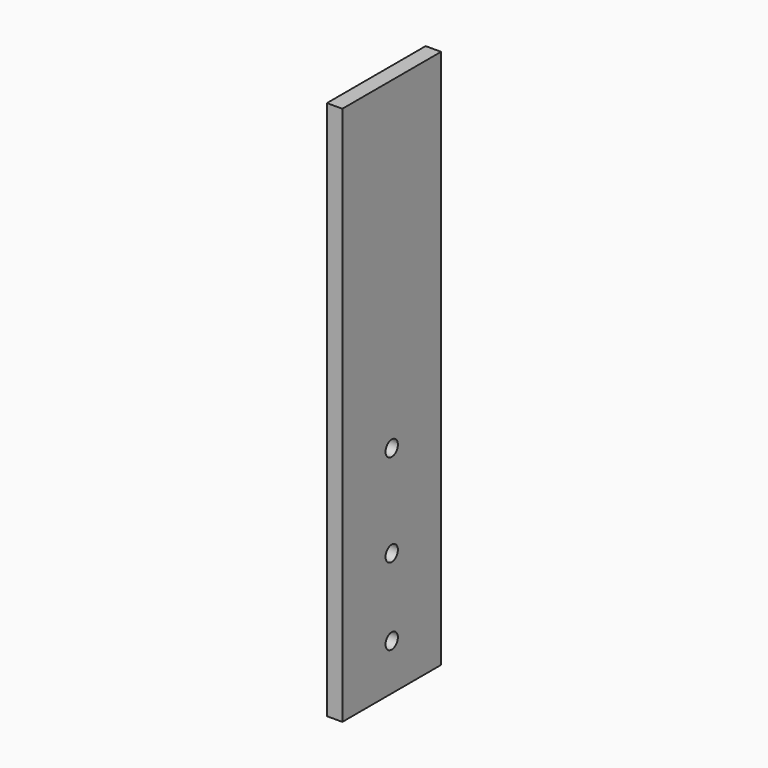
from build123d import *

# Parameters (mm, degrees)
F0_W     = 50.8
F0_H     = 222.25
F0_R     = 3.175
F1_DEPTH = 6.35


with BuildPart() as f1:
    # F0 (on Right) → F1 (new body)
    with BuildSketch(Plane.YZ):
        with Locations((0, 111.125)):
            Rectangle(F0_W, F0_H)
        with Locations((0, 19.05)):
            Circle(F0_R, mode=Mode.SUBTRACT)
        with Locations((0, 50.8)):
            Circle(F0_R, mode=Mode.SUBTRACT)
        with Locations((0, 88.9)):
            Circle(F0_R, mode=Mode.SUBTRACT)
    extrude(amount=F1_DEPTH)


solid = f1.part
